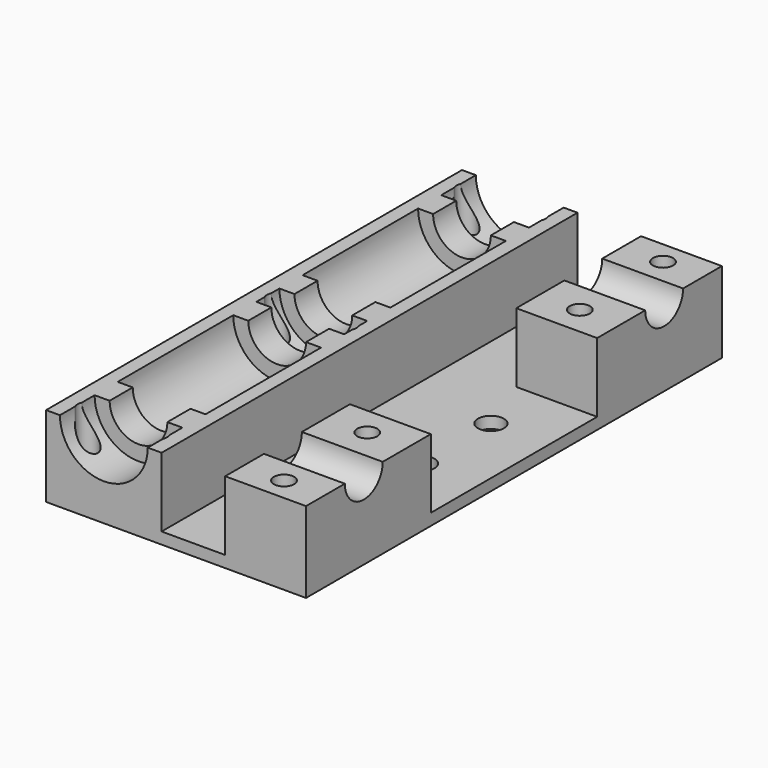
from build123d import *

# Parameters (mm, degrees)
PAD004_DEPTH    = 5
PAD003_DEPTH    = 5
PAD002_DEPTH    = 5
PAD001_DEPTH    = 5
SKETCH_W        = 45
SKETCH_H        = 90
PAD_DEPTH       = 14
SKETCH001_R     = 7.6
POCKET_DEPTH    = 90.001
SKETCH002_R     = 1.75
POCKET001_DEPTH = 14.001
POCKET002_DEPTH = 12
SKETCH004_R     = 2.25
POCKET003_DEPTH = 14.001
SKETCH008_R     = 4.1
POCKET005_DEPTH = 20
POCKET006_DEPTH = 3.5
POCKET007_DEPTH = 5


with BuildPart() as pad004:
    # Sketch021 → Pad004 (new body)
    with BuildSketch(Plane.XZ.offset(32.5)):
        with BuildLine():
            ThreePointArc((-7.6, 14), (0, 6.4), (7.6, 14))
            Line((7.6, 14), (5, 14))
            ThreePointArc((-5, 14), (0, 9), (5, 14))
            Line((-7.6, 14), (-5, 14))
        make_face()
    extrude(amount=PAD004_DEPTH)


with BuildPart() as pad003:
    # Sketch020 → Pad003 (new body)
    with BuildSketch(Plane.XZ.offset(-32.5)):
        with BuildLine():
            ThreePointArc((-7.6, 14), (0, 6.4), (7.6, 14))
            Line((7.6, 14), (5, 14))
            ThreePointArc((-5, 14), (0, 9), (5, 14))
            Line((-7.6, 14), (-5, 14))
        make_face()
    extrude(amount=-PAD003_DEPTH)


with BuildPart() as pad002:
    # Sketch019 → Pad002 (new body)
    with BuildSketch(Plane.XZ.offset(7.5)):
        with BuildLine():
            ThreePointArc((-7.6, 14), (0, 6.4), (7.6, 14))
            Line((7.6, 14), (5, 14))
            ThreePointArc((-5, 14), (0, 9), (5, 14))
            Line((-7.6, 14), (-5, 14))
        make_face()
    extrude(amount=-PAD002_DEPTH)


with BuildPart() as pad001:
    # Sketch018 → Pad001 (new body)
    with BuildSketch(Plane.XZ.offset(-7.5)):
        with BuildLine():
            ThreePointArc((-7.6, 14), (0, 6.4), (7.6, 14))
            Line((7.6, 14), (5, 14))
            ThreePointArc((-5, 14), (0, 9), (5, 14))
            Line((-7.6, 14), (-5, 14))
        make_face()
    extrude(amount=PAD001_DEPTH)


with BuildPart() as fusion:
    # Sketch → Pad (new body)
    with BuildSketch(Plane.XY):
        with Locations((12.5, 0)):
            Rectangle(SKETCH_W, SKETCH_H)
    extrude(amount=PAD_DEPTH)

    # Sketch001 → Pocket (cut, through all)
    with BuildSketch(Plane.XZ.offset(45)):
        with Locations((0, 14)):
            Circle(SKETCH001_R)
    extrude(amount=-POCKET_DEPTH, mode=Mode.SUBTRACT)

    # Sketch002 → Pocket001 (cut, through all)
    with BuildSketch(Plane.XY.offset(14)):
        with Locations((-6, 41)):
            Circle(SKETCH002_R)
        with Locations((-6, -41)):
            Circle(SKETCH002_R)
        with Locations((6, 41)):
            Circle(SKETCH002_R)
        with Locations((6, -41)):
            Circle(SKETCH002_R)
        with Locations((6, 0)):
            Circle(SKETCH002_R)
        with Locations((-6, 0)):
            Circle(SKETCH002_R)
        with Locations((28, 41)):
            Circle(SKETCH002_R)
        with Locations((28, 23)):
            Circle(SKETCH002_R)
        with Locations((28, -23)):
            Circle(SKETCH002_R)
        with Locations((28, -41)):
            Circle(SKETCH002_R)
    extrude(amount=-POCKET001_DEPTH, mode=Mode.SUBTRACT)

    # Sketch003 → Pocket002 (cut)
    with BuildSketch(Plane.XY.offset(14)):
        Polygon((10, 50), (10, -50), (21, -50), (21, -18), (41, -18), (41, 18), (21, 18), (21, 50), align=None)
    extrude(amount=-POCKET002_DEPTH, mode=Mode.SUBTRACT)

    # Sketch004 → Pocket003 (cut, through all)
    with BuildSketch(Plane(origin=(0, 0, 0), x_dir=(1, 0, 0), z_dir=(0, 0, -1))):
        with Locations((25, 7.5)):
            Circle(SKETCH004_R)
        with Locations((25, -7.5)):
            Circle(SKETCH004_R)
    extrude(amount=-POCKET003_DEPTH, mode=Mode.SUBTRACT)

    # Sketch008 → Pocket005 (cut)
    with BuildSketch(Plane.YZ.offset(35)):
        with Locations((-32.5, 14)):
            Circle(SKETCH008_R)
        with Locations((32.5, 14)):
            Circle(SKETCH008_R)
    extrude(amount=-POCKET005_DEPTH, mode=Mode.SUBTRACT)

    # Sketch012 → Pocket006 (cut)
    with BuildSketch(Plane(origin=(0, 0, 0), x_dir=(1, 0, 0), z_dir=(0, 0, -1))):
        Polygon((-4.412285, 2.750003), (-7.587715, 2.750003), (-9.17543, 0), (-7.587715, -2.750003), (-4.412285, -2.750003), (-2.82457, 0), align=None)
        Polygon((7.587715, 2.750003), (4.412285, 2.750003), (2.82457, 0), (4.412285, -2.750003), (7.587715, -2.750003), (9.17543, 0), align=None)
        Polygon((-4.412285, 43.750003), (-7.587715, 43.750003), (-9.17543, 41), (-7.587715, 38.249997), (-4.412285, 38.249997), (-2.82457, 41), align=None)
        Polygon((7.587715, -38.249997), (4.412285, -38.249997), (2.82457, -41), (4.412285, -43.750003), (7.587715, -43.750003), (9.17543, -41), align=None)
        Polygon((7.587715, 43.750003), (4.412285, 43.750003), (2.82457, 41), (4.412285, 38.249997), (7.587715, 38.249997), (9.17543, 41), align=None)
        Polygon((-4.412285, -38.249997), (-7.587715, -38.249997), (-9.17543, -41), (-7.587715, -43.750003), (-4.412285, -43.750003), (-2.82457, -41), align=None)
    extrude(amount=-POCKET006_DEPTH, mode=Mode.SUBTRACT)

    # Sketch022 → Pocket007 (cut)
    with BuildSketch(Plane.XY.offset(2)):
        Polygon((44.573685, 18), (36, 3.425), (36, -3.425), (44.573685, -18), (55.573685, -18), (55.573685, 18), align=None)
    extrude(amount=-POCKET007_DEPTH, mode=Mode.SUBTRACT)

    # Fusion: union Pad004, Pad003, Pad002, Pad001
    add(pad004.part)
    add(pad003.part)
    add(pad002.part)
    add(pad001.part)


solid = fusion.part
